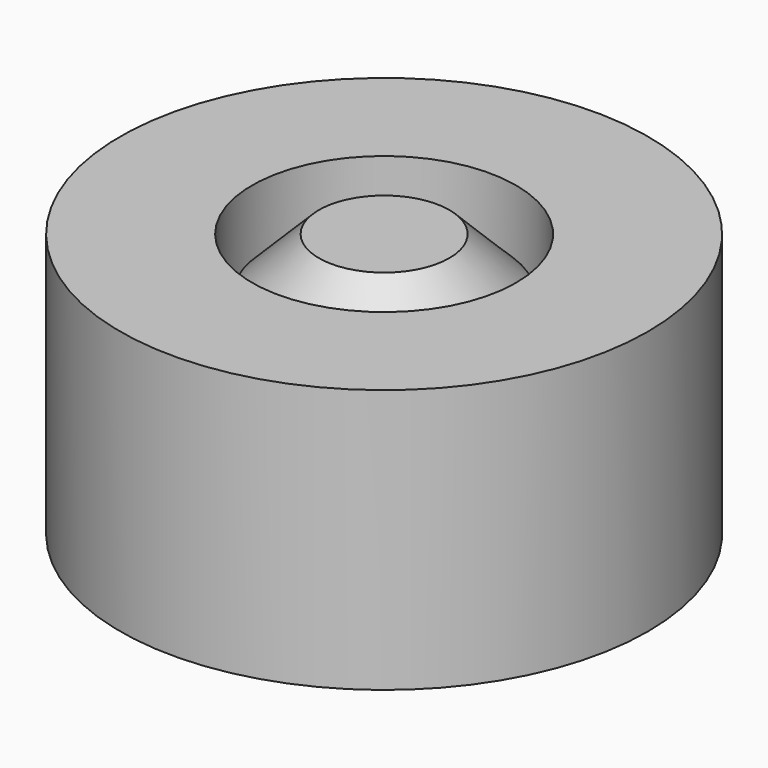
from build123d import *

# Parameters (mm, degrees)
F0_R     = 5
F0_R_2   = 2.5
F1_DEPTH = 5
F2_R     = 2.235628
F3_DEPTH = 5
F4_SIZE  = 1


with BuildPart() as f1:
    # F0 (on Top) → F1 (new body)
    with BuildSketch(Plane.XY):
        Circle(F0_R)
        Circle(F0_R_2, mode=Mode.SUBTRACT)
    extrude(amount=F1_DEPTH)


with BuildPart() as f3:
    # F2 (on Top) → F3 (new body)
    with BuildSketch(Plane.XY):
        Circle(F2_R)
    extrude(amount=F3_DEPTH)

    # F4
    f4_edges = [f3.edges().sort_by_distance(p)[0] for p in [
        (-2.235628, 0, 0),
        (-2.235628, 0, 5),
    ]]
    chamfer(f4_edges, length=F4_SIZE)


solid = Compound([f1.part, f3.part])
